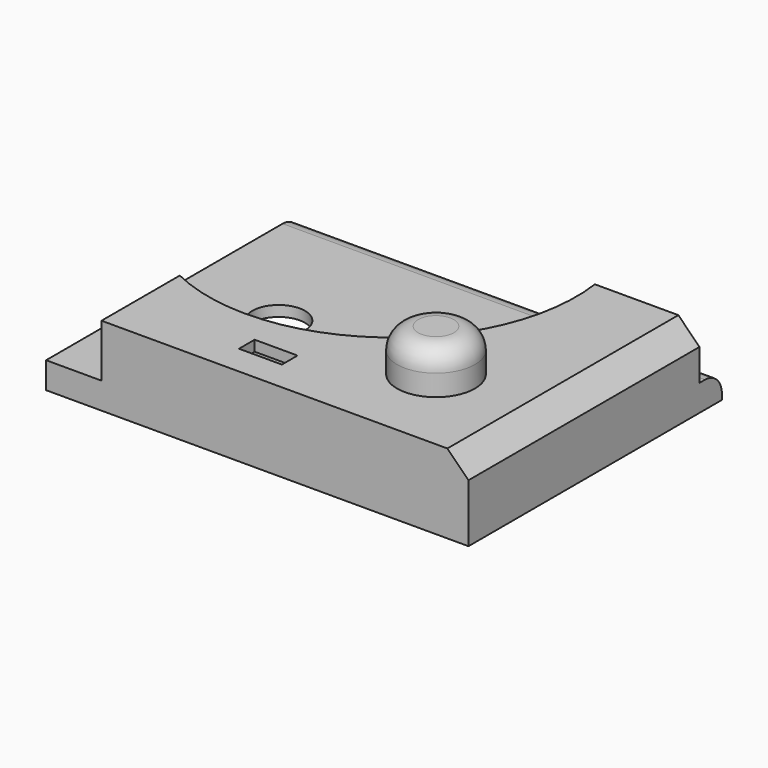
from build123d import *

# Parameters (mm, degrees)
F0_W      = 101.6
F0_H      = 76.2
F1_DEPTH  = 6.35
F3_DEPTH  = 5.334
F4_DEPTH  = 12.7
F5_R      = 5.08
F6_SIZE   = 5.08
F8_T      = -2.54
F9_D      = 12.7
F10_R     = 9.3699791153
F11_DEPTH = 10.16
F12_R     = 5.08
F13_W     = 10.32633055
F13_H     = 4.7064404935
F14_DEPTH = 25.4


with BuildPart() as f1:
    # F0 (on Top) → F1 (new body)
    with BuildSketch(Plane.XY):
        with Locations((-0.1408625394, -1.77114314)):
            Rectangle(F0_W, F0_H)
    extrude(amount=F1_DEPTH)

    # F3 (add): a face of the model
    f3_faces = [f1.faces().sort_by_distance(p)[0] for p in [
        (-0.1408625394, -1.77114314, 0),
    ]]
    extrude(f3_faces, amount=-F3_DEPTH)

    # F2 (on face) → F4 (join)
    with BuildSketch(Plane.XY.offset(6.35)):
        with BuildLine():
            Line((-37.6103334129, -16.3400694728), (-37.6103334129, -39.87114314))
            Line((-37.6103334129, -39.87114314), (50.6591374606, -39.87114314))
            Line((50.6591374606, -39.87114314), (50.6591374606, 29.5811630785))
            Line((50.6591374606, 29.5811630785), (25.4961457103, 29.5811630785))
            ThreePointArc((25.4961457103, 29.5811630785), (7.7217190937, -12.3147544324), (-37.6103334129, -16.3400694728))
        make_face()
    extrude(amount=F4_DEPTH)

    # F5
    f5_edges = [f1.edges().sort_by_distance(p)[0] for p in [
        (-0.140863, 36.328857, 6.35),
    ]]
    fillet(f5_edges, radius=F5_R)

    # F6
    f6_edges = [f1.edges().sort_by_distance(p)[0] for p in [
        (50.659137, -5.14499, 19.05),
    ]]
    chamfer(f6_edges, length=F6_SIZE)

    # F8
    f8_openings = [f1.faces().sort_by_distance(p)[0] for p in [
        (-0.140863, -1.771143, 0),
    ]]
    offset(amount=F8_T, openings=f8_openings, kind=Kind.INTERSECTION)

    # F9 (through all)
    with Locations(Plane.XY.offset(6.35)):
        with Locations((-26.9047711045, 0)):
            Hole(F9_D / 2)

    # F10 (on face) → F11 (join)
    with BuildSketch(Plane.XY.offset(19.05)):
        with Locations((25.0284876674, -17.6028143615)):
            Circle(F10_R)
    extrude(amount=F11_DEPTH)

    # F12
    f12_edges = [f1.edges().sort_by_distance(p)[0] for p in [
        (15.658509, -17.602814, 29.21),
    ]]
    fillet(f12_edges, radius=F12_R)

    # F13 (on face) → F14 (cut)
    with BuildSketch(Plane.XY.offset(19.05)):
        with Locations((-5.163165275, -30.2898483351)):
            Rectangle(F13_W, F13_H)
    extrude(amount=-F14_DEPTH, mode=Mode.SUBTRACT)


solid = f1.part
